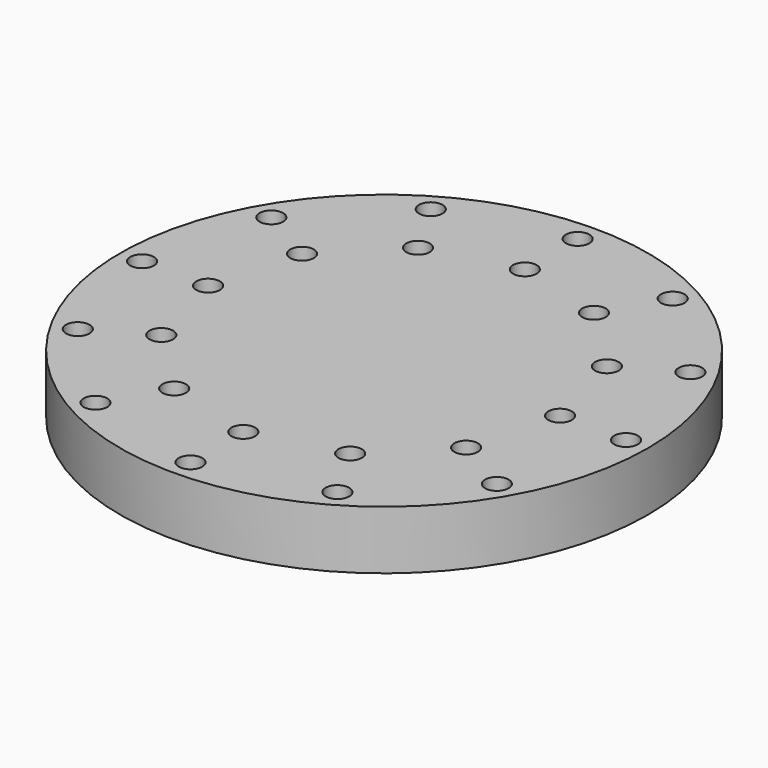
from build123d import *

# Parameters (mm, degrees)
F0_R     = 57.15
F1_DEPTH = 12.7
F2_R     = 2.5527
F3_DEPTH = 12.7
F5_COUNT = 12
F6_R     = 2.5527
F7_DEPTH = 12.7
F8_COUNT = 12


with BuildPart() as f1:
    # F0 (on Top) → F1 (new body)
    with BuildSketch(Plane.XY):
        Circle(F0_R)
    extrude(amount=F1_DEPTH)

    # F2 (on face) → F3 (cut, through all)
    with BuildSketch(Plane.XY.offset(12.7)):
        with Locations((-52.3875, 0)):
            Circle(F2_R)
    f3 = extrude(amount=-F3_DEPTH, mode=Mode.SUBTRACT)

    # F5: F3 ×12 about axis
    f5_axis = Axis((0, 0, 5.419571884), (0, 0, -1))
    for i in range(1, F5_COUNT):
        add(f3.rotate(f5_axis, i * 360 / F5_COUNT), mode=Mode.SUBTRACT)

    # F6 (on face) → F7 (cut, through all)
    with BuildSketch(Plane.XY.offset(12.7)):
        with Locations((0, 38.1)):
            Circle(F6_R)
    f7 = extrude(amount=-F7_DEPTH, mode=Mode.SUBTRACT)

    # F8: F7 ×12 about axis
    f8_axis = Axis((0, 0, 5.419571884), (0, 0, -1))
    for i in range(1, F8_COUNT):
        add(f7.rotate(f8_axis, i * 360 / F8_COUNT), mode=Mode.SUBTRACT)


solid = f1.part
